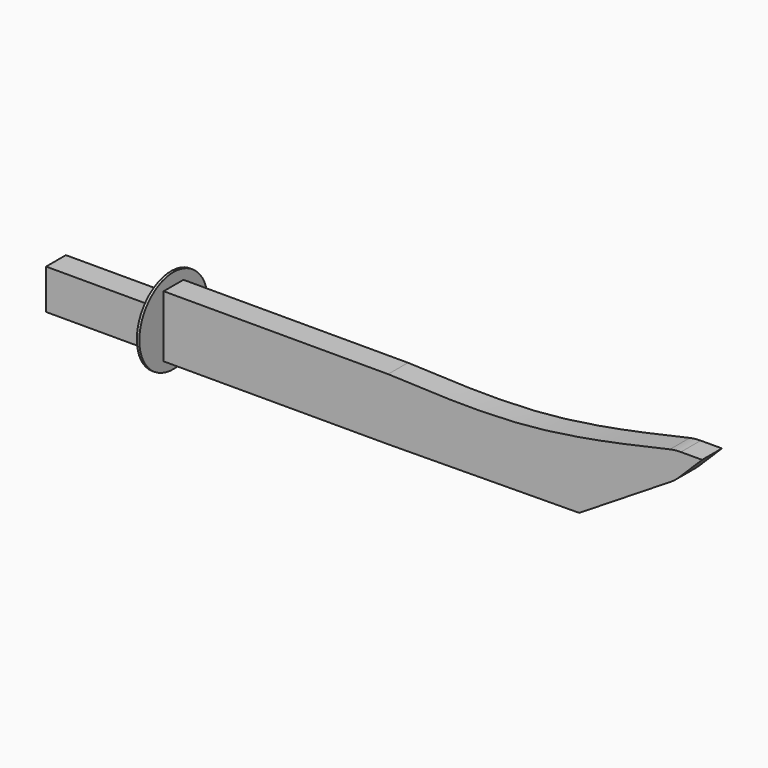
from build123d import *

# Parameters (mm, degrees)
F0_W     = 23.0244621634
F0_H     = 6.331730634
F1_DEPTH = 2.54
F2_R     = 4.3842644701
F3_DEPTH = 0.254
F4_W     = 11.9889006019
F4_H     = 4.1013769805
F5_DEPTH = 2.54
F6_R     = 5.08
F7_R     = 5.08


with BuildPart() as f1:
    # F0 (on Front) → F1 (new body)
    with BuildSketch(Plane.XZ):
        with Locations((-50.9416200221, 40.8684182912)):
            Rectangle(F0_W, F0_H)
        with BuildLine():
            add(Edge.make_bspline(
                [(-39.4293889403, 44.0342836082), (-34.6353719511, 43.8159711563), (-24.9092032572, 43.3730558018), (-15.0047185596, 45.6259190389), (-9.9821425974, 46.768348664)],
                knots=[0, 0, 0, 0, 0.4928988114, 1, 1, 1, 1], degree=3))
            Line((-39.4293889403, 44.0342836082), (-39.4293889403, 37.7025529742))
            Line((-39.4293889403, 37.7025529742), (-19.8352001607, 37.883721292))
            Line((-19.8352001607, 37.883721292), (-9.9821425974, 44.0342836082))
            Line((-9.9821425974, 44.0342836082), (-7.2362092324, 46.768348664))
            Line((-7.2362092324, 46.768348664), (-9.9821425974, 46.768348664))
        make_face()
    extrude(amount=F1_DEPTH)

    # F2 (on face) → F3 (join)
    with BuildSketch(Plane(origin=(-62.4538511038, 0, 0), x_dir=(0, -1, 0), z_dir=(-1, 0, 0))):
        with Locations((1.27, 40.8684182912)):
            Circle(F2_R)
    extrude(amount=F3_DEPTH)

    # F6
    f6_edges = [f1.edges().sort_by_distance(p)[0] for p in [
        (-9.982143, -1.27, 44.034284),
    ]]
    fillet(f6_edges, radius=F6_R)

    # F7
    f7_edges = [f1.edges().sort_by_distance(p)[0] for p in [
        (-9.982143, -1.27, 46.768349),
    ]]
    fillet(f7_edges, radius=F7_R)


with BuildPart() as f5:
    # F4 (on Front) → F5 (new body)
    with BuildSketch(Plane.XZ):
        with Locations((-68.5129053891, 40.2898248285)):
            Rectangle(F4_W, F4_H)
    extrude(amount=F5_DEPTH)


solid = Compound([f1.part, f5.part])
